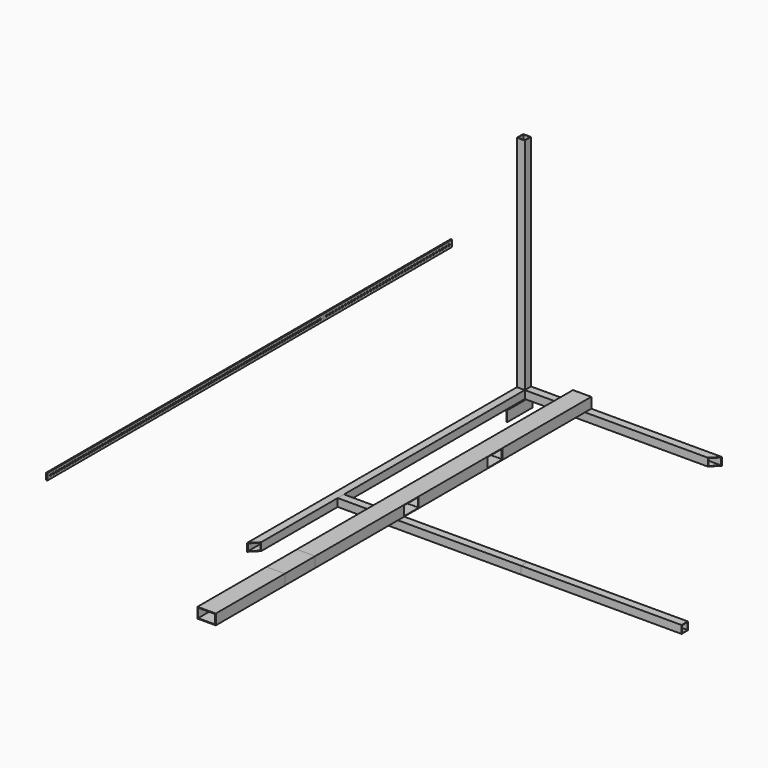
from build123d import *

# Parameters (mm, degrees)
F0_W      = 76.2
F0_H      = 76.2
F0_W_2    = 66.6496
F0_H_2    = 66.6496
F1_DEPTH  = 3352.8
F3_DEPTH  = 76.201
F5_DEPTH  = 76.201
F7_W      = 76.2
F7_H      = 76.2
F7_W_2    = 66.6496
F7_H_2    = 66.6496
F8_DEPTH  = 1930.4
F10_DEPTH = 76.201
F12_DEPTH = 76.201
F13_W     = 76.2
F13_H     = 76.2
F13_W_2   = 66.6496
F13_H_2   = 66.6496
F14_DEPTH = 2133.6
F16_DEPTH = 304.8
F17_W     = 76.2
F17_H     = 76.2
F17_W_2   = 66.6496
F17_H_2   = 66.6496
F18_DEPTH = 1778
F19_W     = 177.8
F19_H     = 101.6
F19_W_2   = 165.1
F19_H_2   = 88.9
F20_DEPTH = 3352.8
F21_DEPTH = 368.3
F22_DEPTH = 838.2
F23_W     = 177.8
F23_H     = 92.0496
F24_DEPTH = 661.154492131
F25_DEPTH = 1562.1
F26_W     = 12.7
F26_H     = 63.5
F27_DEPTH = 1562.1
F28_R     = 9.525
F29_DEPTH = 25.4
F30_DEPTH = 3352.8
F31_R     = 9.525
F32_DEPTH = 25.4


with BuildPart() as f1:
    # F0 (on Front) → F1 (new body)
    with BuildSketch(Plane.XZ):
        Rectangle(F0_W, F0_H)
        Rectangle(F0_W_2, F0_H_2, mode=Mode.SUBTRACT)
    extrude(amount=F1_DEPTH)

    # F2 (on face) → F3 (cut, through all)
    with BuildSketch(Plane.XY.offset(38.1)):
        Polygon((38.1, 0), (-38.1, 0), (38.1, -76.2), align=None)
    extrude(amount=-F3_DEPTH, mode=Mode.SUBTRACT)

    # F4 (on face) → F5 (cut, through all)
    with BuildSketch(Plane.XY.offset(38.1)):
        Polygon((38.1, -3276.6), (-38.1, -3352.8), (38.1, -3352.8), align=None)
    extrude(amount=-F5_DEPTH, mode=Mode.SUBTRACT)


with BuildPart() as f8:
    # F7 (on offset) → F8 (new body)
    with BuildSketch(Plane.YZ.offset(-38.1)):
        with Locations((-38.1, 0)):
            Rectangle(F7_W, F7_H)
        with Locations((-38.1, 0)):
            Rectangle(F7_W_2, F7_H_2, mode=Mode.SUBTRACT)
    extrude(amount=F8_DEPTH)

    # F9 (on face) → F10 (cut, through all)
    with BuildSketch(Plane.XY.offset(38.1)):
        Polygon((38.1, -76.2), (-38.1, 0), (-38.1, -76.2), align=None)
    extrude(amount=-F10_DEPTH, mode=Mode.SUBTRACT)

    # F11 (on face) → F12 (cut, through all)
    with BuildSketch(Plane.XY.offset(38.1)):
        Polygon((1892.3, -76.2), (1892.3, 0), (1816.1, -76.2), align=None)
    extrude(amount=-F12_DEPTH, mode=Mode.SUBTRACT)


with BuildPart() as f14:
    # F13 (on face) → F14 (new body)
    with BuildSketch(Plane.XY.offset(38.1)):
        with Locations((0, -38.1)):
            Rectangle(F13_W, F13_H)
        with Locations((0, -38.1)):
            Rectangle(F13_W_2, F13_H_2, mode=Mode.SUBTRACT)
    extrude(amount=F14_DEPTH)


with BuildPart() as f16:
    # F15 (on face) → F16 (new body)
    with BuildSketch(Plane(origin=(0, 0, 0), x_dir=(-1, 0, 0), z_dir=(0, 1, 0))):
        with BuildLine():
            Line((38.1, -47.625), (38.1, -38.1))
            Line((38.1, -38.1), (-50.8, -38.1))
            Line((-50.8, -38.1), (-50.8, -139.7))
            Line((-50.8, -139.7), (-41.275, -139.7))
            Line((-41.275, -139.7), (-41.275, -53.975))
            ThreePointArc((-41.275, -53.975), (-39.4151280605, -49.4848719395), (-34.925, -47.625))
            Line((-34.925, -47.625), (38.1, -47.625))
        make_face()
    extrude(amount=-F16_DEPTH)


with BuildPart() as f18:
    # F17 (on face) → F18 (new body)
    with BuildSketch(Plane.YZ.offset(38.1)):
        with Locations((-2309.2892211914, 0)):
            Rectangle(F17_W, F17_H)
        with Locations((-2309.2892211914, 0)):
            Rectangle(F17_W_2, F17_H_2, mode=Mode.SUBTRACT)
    extrude(amount=F18_DEPTH)


with BuildPart() as f20:
    # F19 (on face) → F20 (new body)
    with BuildSketch(Plane(origin=(0, 0, 0), x_dir=(-1, 0, 0), z_dir=(0, 1, 0))):
        with Locations((-534.153492131, 88.9)):
            Rectangle(F19_W, F19_H)
        with Locations((-534.153492131, 88.9)):
            Rectangle(F19_W_2, F19_H_2, mode=Mode.SUBTRACT)
    extrude(amount=-F20_DEPTH)


with BuildPart() as f21:
    # F21 (new): a face of the model
    f21_faces = [f20.part.faces().sort_by_distance(p)[0] for p in [
        (534.153492131, -3352.8, 40.1478134681),
    ]]
    extrude(f21_faces, amount=F21_DEPTH)


with BuildPart() as f22:
    # F22 (new): a face of the model
    f22_faces = [f21.part.faces().sort_by_distance(p)[0] for p in [
        (534.153492131, -3721.1, 40.1478134681),
    ]]
    extrude(f22_faces, amount=F22_DEPTH)


with BuildPart() as f20_1:
    add(f20.part)

    # F23 (on face) → F24 (cut, through all)
    with BuildSketch(Plane.YZ.offset(623.053492131)):
        with Locations((-2184.4, 88.9)):
            Rectangle(F23_W, F23_H)
        with Locations((-2184.4, 88.9)):
            Rectangle(F23_W, F23_H)
        with Locations((-1168.4, 88.9)):
            Rectangle(F23_W, F23_H)
    extrude(amount=-F24_DEPTH, mode=Mode.SUBTRACT)


with BuildPart() as f25:
    # F25 (new): a face of the model
    f25_faces = [f18.part.faces().sort_by_distance(p)[0] for p in [
        (1816.1, -2309.2892211914, 37.0223692655),
    ]]
    extrude(f25_faces, amount=F25_DEPTH)


with BuildPart() as f27:
    # F26 (on Front) → F27 (new body)
    with BuildSketch(Plane.XZ):
        with Locations((-734.5335291862, 1013.425075531)):
            Rectangle(F26_W, F26_H)
    extrude(amount=F27_DEPTH)

    # F28 (on face) → F29 (cut)
    with BuildSketch(Plane(origin=(-740.8835291862, 0, 0), x_dir=(0, -1, 0), z_dir=(-1, 0, 0))):
        with Locations((38.1, 1013.425075531)):
            Circle(F28_R)
        with Locations((76.2, 1013.425075531)):
            Circle(F28_R)
        with Locations((114.3, 1013.425075531)):
            Circle(F28_R)
        with Locations((152.4, 1013.425075531)):
            Circle(F28_R)
        with Locations((190.5, 1013.425075531)):
            Circle(F28_R)
        with Locations((228.6, 1013.425075531)):
            Circle(F28_R)
        with Locations((266.7, 1013.425075531)):
            Circle(F28_R)
        with Locations((304.8, 1013.425075531)):
            Circle(F28_R)
        with Locations((342.9, 1013.425075531)):
            Circle(F28_R)
        with Locations((381, 1013.425075531)):
            Circle(F28_R)
        with Locations((419.1, 1013.425075531)):
            Circle(F28_R)
        with Locations((457.2, 1013.425075531)):
            Circle(F28_R)
        with Locations((495.3, 1013.425075531)):
            Circle(F28_R)
        with Locations((533.4, 1013.425075531)):
            Circle(F28_R)
        with Locations((571.5, 1013.425075531)):
            Circle(F28_R)
        with Locations((609.6, 1013.425075531)):
            Circle(F28_R)
        with Locations((647.7, 1013.425075531)):
            Circle(F28_R)
        with Locations((685.8, 1013.425075531)):
            Circle(F28_R)
        with Locations((723.9, 1013.425075531)):
            Circle(F28_R)
        with Locations((762, 1013.425075531)):
            Circle(F28_R)
        with Locations((800.1, 1013.425075531)):
            Circle(F28_R)
        with Locations((838.2, 1013.425075531)):
            Circle(F28_R)
        with Locations((876.3, 1013.425075531)):
            Circle(F28_R)
        with Locations((914.4, 1013.425075531)):
            Circle(F28_R)
        with Locations((952.5, 1013.425075531)):
            Circle(F28_R)
        with Locations((990.6, 1013.425075531)):
            Circle(F28_R)
        with Locations((1028.7, 1013.425075531)):
            Circle(F28_R)
        with Locations((1066.8, 1013.425075531)):
            Circle(F28_R)
        with Locations((1104.9, 1013.425075531)):
            Circle(F28_R)
        with Locations((1143, 1013.425075531)):
            Circle(F28_R)
        with Locations((1181.1, 1013.425075531)):
            Circle(F28_R)
        with Locations((1219.2, 1013.425075531)):
            Circle(F28_R)
        with Locations((1257.3, 1013.425075531)):
            Circle(F28_R)
        with Locations((1295.4, 1013.425075531)):
            Circle(F28_R)
        with Locations((1333.5, 1013.425075531)):
            Circle(F28_R)
        with Locations((1371.6, 1013.425075531)):
            Circle(F28_R)
        with Locations((1409.7, 1013.425075531)):
            Circle(F28_R)
        with Locations((1447.8, 1013.425075531)):
            Circle(F28_R)
        with Locations((1485.9, 1013.425075531)):
            Circle(F28_R)
        with Locations((1524, 1013.425075531)):
            Circle(F28_R)
    extrude(amount=-F29_DEPTH, mode=Mode.SUBTRACT)


with BuildPart() as f30:
    # F30 (new): a face of the model
    f30_faces = [f27.part.faces().sort_by_distance(p)[0] for p in [
        (-734.5335291862, -1562.1, 1013.425075531),
    ]]
    extrude(f30_faces, amount=F30_DEPTH)

    # F31 (on face) → F32 (cut)
    with BuildSketch(Plane(origin=(-740.8835291862, 0, 0), x_dir=(0, -1, 0), z_dir=(-1, 0, 0))):
        with Locations((1603.375, 1013.425075531)):
            Circle(F31_R)
        with Locations((1636.395, 1013.425075531)):
            Circle(F31_R)
        with Locations((1669.415, 1013.425075531)):
            Circle(F31_R)
        with Locations((1702.435, 1013.425075531)):
            Circle(F31_R)
        with Locations((1735.455, 1013.425075531)):
            Circle(F31_R)
        with Locations((1768.475, 1013.425075531)):
            Circle(F31_R)
        with Locations((1801.495, 1013.425075531)):
            Circle(F31_R)
        with Locations((1834.515, 1013.425075531)):
            Circle(F31_R)
        with Locations((1867.535, 1013.425075531)):
            Circle(F31_R)
        with Locations((1900.555, 1013.425075531)):
            Circle(F31_R)
        with Locations((1933.575, 1013.425075531)):
            Circle(F31_R)
        with Locations((1966.595, 1013.425075531)):
            Circle(F31_R)
        with Locations((1999.615, 1013.425075531)):
            Circle(F31_R)
        with Locations((2032.635, 1013.425075531)):
            Circle(F31_R)
        with Locations((2065.655, 1013.425075531)):
            Circle(F31_R)
        with Locations((2098.675, 1013.425075531)):
            Circle(F31_R)
        with Locations((2131.695, 1013.425075531)):
            Circle(F31_R)
        with Locations((2164.715, 1013.425075531)):
            Circle(F31_R)
        with Locations((2197.735, 1013.425075531)):
            Circle(F31_R)
        with Locations((2230.755, 1013.425075531)):
            Circle(F31_R)
        with Locations((2263.775, 1013.425075531)):
            Circle(F31_R)
        with Locations((2296.795, 1013.425075531)):
            Circle(F31_R)
        with Locations((2329.815, 1013.425075531)):
            Circle(F31_R)
        with Locations((2362.835, 1013.425075531)):
            Circle(F31_R)
        with Locations((2395.855, 1013.425075531)):
            Circle(F31_R)
        with Locations((2428.875, 1013.425075531)):
            Circle(F31_R)
        with Locations((2461.895, 1013.425075531)):
            Circle(F31_R)
        with Locations((2494.915, 1013.425075531)):
            Circle(F31_R)
        with Locations((2527.935, 1013.425075531)):
            Circle(F31_R)
        with Locations((2560.955, 1013.425075531)):
            Circle(F31_R)
        with Locations((2593.975, 1013.425075531)):
            Circle(F31_R)
        with Locations((2626.995, 1013.425075531)):
            Circle(F31_R)
        with Locations((2660.015, 1013.425075531)):
            Circle(F31_R)
        with Locations((2693.035, 1013.425075531)):
            Circle(F31_R)
        with Locations((2726.055, 1013.425075531)):
            Circle(F31_R)
        with Locations((2759.075, 1013.425075531)):
            Circle(F31_R)
        with Locations((2792.095, 1013.425075531)):
            Circle(F31_R)
        with Locations((2825.115, 1013.425075531)):
            Circle(F31_R)
        with Locations((2858.135, 1013.425075531)):
            Circle(F31_R)
        with Locations((2891.155, 1013.425075531)):
            Circle(F31_R)
        with Locations((2924.175, 1013.425075531)):
            Circle(F31_R)
        with Locations((2957.195, 1013.425075531)):
            Circle(F31_R)
        with Locations((2990.215, 1013.425075531)):
            Circle(F31_R)
        with Locations((3023.235, 1013.425075531)):
            Circle(F31_R)
        with Locations((3056.255, 1013.425075531)):
            Circle(F31_R)
        with Locations((3089.275, 1013.425075531)):
            Circle(F31_R)
        with Locations((3122.295, 1013.425075531)):
            Circle(F31_R)
        with Locations((3155.315, 1013.425075531)):
            Circle(F31_R)
        with Locations((3188.335, 1013.425075531)):
            Circle(F31_R)
        with Locations((3221.355, 1013.425075531)):
            Circle(F31_R)
        with Locations((3254.375, 1013.425075531)):
            Circle(F31_R)
        with Locations((3287.395, 1013.425075531)):
            Circle(F31_R)
        with Locations((3320.415, 1013.425075531)):
            Circle(F31_R)
        with Locations((3353.435, 1013.425075531)):
            Circle(F31_R)
        with Locations((3386.455, 1013.425075531)):
            Circle(F31_R)
        with Locations((3419.475, 1013.425075531)):
            Circle(F31_R)
        with Locations((3452.495, 1013.425075531)):
            Circle(F31_R)
        with Locations((3485.515, 1013.425075531)):
            Circle(F31_R)
        with Locations((3518.535, 1013.425075531)):
            Circle(F31_R)
        with Locations((3551.555, 1013.425075531)):
            Circle(F31_R)
        with Locations((3584.575, 1013.425075531)):
            Circle(F31_R)
        with Locations((3617.595, 1013.425075531)):
            Circle(F31_R)
        with Locations((3650.615, 1013.425075531)):
            Circle(F31_R)
        with Locations((3683.635, 1013.425075531)):
            Circle(F31_R)
        with Locations((3716.655, 1013.425075531)):
            Circle(F31_R)
        with Locations((3749.675, 1013.425075531)):
            Circle(F31_R)
        with Locations((3782.695, 1013.425075531)):
            Circle(F31_R)
        with Locations((3815.715, 1013.425075531)):
            Circle(F31_R)
        with Locations((3848.735, 1013.425075531)):
            Circle(F31_R)
        with Locations((3881.755, 1013.425075531)):
            Circle(F31_R)
        with Locations((3914.775, 1013.425075531)):
            Circle(F31_R)
        with Locations((3947.795, 1013.425075531)):
            Circle(F31_R)
        with Locations((3980.815, 1013.425075531)):
            Circle(F31_R)
        with Locations((4013.835, 1013.425075531)):
            Circle(F31_R)
        with Locations((4046.855, 1013.425075531)):
            Circle(F31_R)
        with Locations((4079.875, 1013.425075531)):
            Circle(F31_R)
        with Locations((4112.895, 1013.425075531)):
            Circle(F31_R)
        with Locations((4145.915, 1013.425075531)):
            Circle(F31_R)
        with Locations((4178.935, 1013.425075531)):
            Circle(F31_R)
        with Locations((4211.955, 1013.425075531)):
            Circle(F31_R)
        with Locations((4244.975, 1013.425075531)):
            Circle(F31_R)
        with Locations((4277.995, 1013.425075531)):
            Circle(F31_R)
        with Locations((4311.015, 1013.425075531)):
            Circle(F31_R)
        with Locations((4344.035, 1013.425075531)):
            Circle(F31_R)
        with Locations((4377.055, 1013.425075531)):
            Circle(F31_R)
        with Locations((4410.075, 1013.425075531)):
            Circle(F31_R)
        with Locations((4443.095, 1013.425075531)):
            Circle(F31_R)
        with Locations((4476.115, 1013.425075531)):
            Circle(F31_R)
        with Locations((4509.135, 1013.425075531)):
            Circle(F31_R)
        with Locations((4542.155, 1013.425075531)):
            Circle(F31_R)
        with Locations((4575.175, 1013.425075531)):
            Circle(F31_R)
        with Locations((4608.195, 1013.425075531)):
            Circle(F31_R)
        with Locations((4641.215, 1013.425075531)):
            Circle(F31_R)
        with Locations((4674.235, 1013.425075531)):
            Circle(F31_R)
        with Locations((4707.255, 1013.425075531)):
            Circle(F31_R)
        with Locations((4740.275, 1013.425075531)):
            Circle(F31_R)
        with Locations((4773.295, 1013.425075531)):
            Circle(F31_R)
        with Locations((4806.315, 1013.425075531)):
            Circle(F31_R)
        with Locations((4839.335, 1013.425075531)):
            Circle(F31_R)
        with Locations((4872.355, 1013.425075531)):
            Circle(F31_R)
    extrude(amount=-F32_DEPTH, mode=Mode.SUBTRACT)


solid = Compound([f1.part, f8.part, f14.part, f16.part, f18.part, f21.part, f22.part, f20_1.part, f25.part, f27.part, f30.part])
